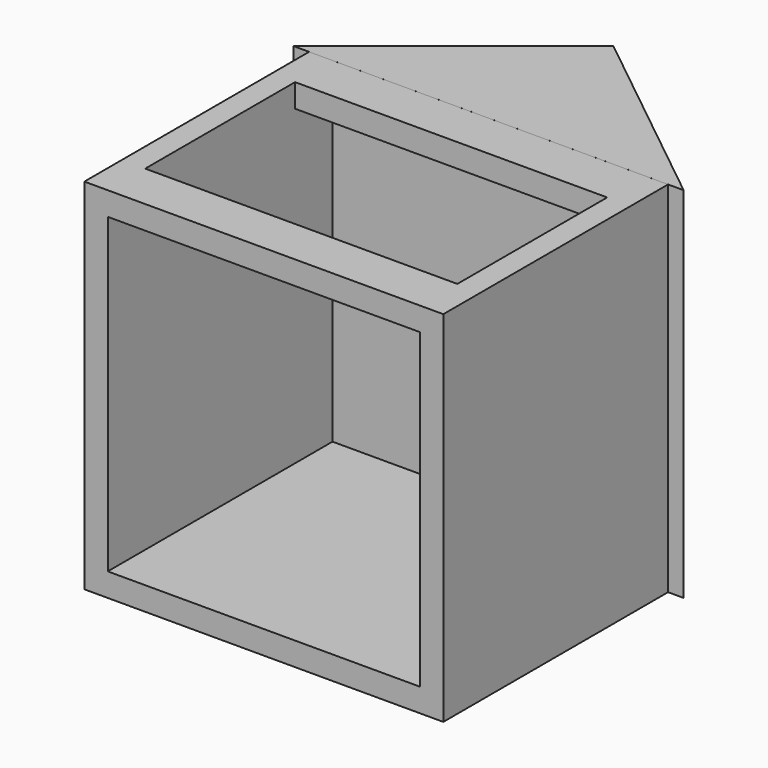
from build123d import *

# Parameters (mm, degrees)
F0_W     = 3505.2
F0_H     = 3505.2
F0_W_2   = 3048
F0_H_2   = 3048
F1_DEPTH = 2743.2
F3_DEPTH = 1752.6
F4_W     = 3048
F4_H     = 1828.8
F5_DEPTH = 304.8


with BuildPart() as f1:
    # F0 (on Front) → F1 (new body)
    with BuildSketch(Plane.XZ):
        with Locations((0.014618, -0.085812)):
            Rectangle(F0_W, F0_H)
        with Locations((0.014618, -0.085812)):
            Rectangle(F0_W_2, F0_H_2, mode=Mode.SUBTRACT)
    extrude(amount=F1_DEPTH)

    # F2 (on Top) → F3 (join, symmetric)
    with BuildSketch(Plane.XY):
        Polygon((0, 1524), (-1904.985382, 0), (1905.014618, 0), align=None)
    extrude(amount=F3_DEPTH, both=True)

    # F4 (on face) → F5 (cut)
    with BuildSketch(Plane.XY.offset(1752.514188)):
        with Locations((0.014618, -1371.6)):
            Rectangle(F4_W, F4_H)
    extrude(amount=-F5_DEPTH, mode=Mode.SUBTRACT)


solid = f1.part
